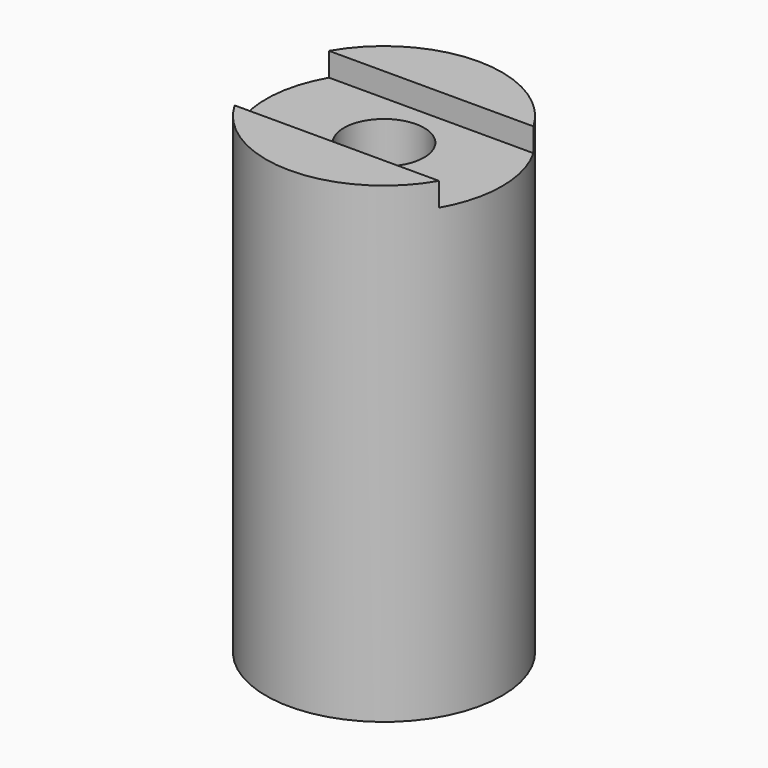
from build123d import *

# Parameters (mm, degrees)
F0_R     = 10
F1_DEPTH = 40
F2_R     = 3.4
F3_DEPTH = 40.001
F4_W     = 25.61774
F4_H     = 10
F5_DEPTH = 2


with BuildPart() as f1:
    # F0 (on Top) → F1 (new body)
    with BuildSketch(Plane.XY):
        Circle(F0_R)
    extrude(amount=-F1_DEPTH)

    # F2 (on face) → F3 (cut, through all)
    with BuildSketch(Plane.XY):
        Circle(F2_R)
    extrude(amount=-F3_DEPTH, mode=Mode.SUBTRACT)

    # F4 (on face) → F5 (cut)
    with BuildSketch(Plane.XY):
        Rectangle(F4_W, F4_H)
    extrude(amount=-F5_DEPTH, mode=Mode.SUBTRACT)


solid = f1.part
